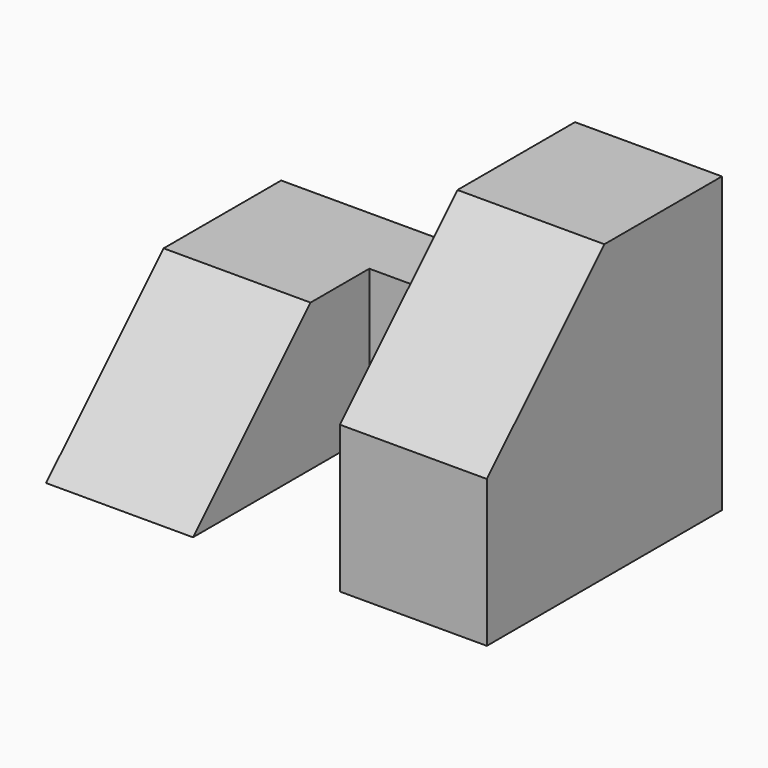
from build123d import *

# Parameters (mm, degrees)
F0_W     = 38.1
F0_H     = 25.4
F1_DEPTH = 12.7
F3_DEPTH = 25.4
F4_W     = 12.7
F4_H     = 19.05
F5_DEPTH = 46.482
F7_DEPTH = 78.994
F8_W     = 12.7
F8_H     = 12.7
F9_DEPTH = 25.4


with BuildPart() as f1:
    # F0 (on Front) → F1 (new body, symmetric)
    with BuildSketch(Plane.XZ):
        with Locations((19.05, 12.7)):
            Rectangle(F0_W, F0_H)
    extrude(amount=F1_DEPTH, both=True)

    # F2 (on Right) → F3 (cut)
    with BuildSketch(Plane.YZ):
        Polygon((0, 12.7), (0, 25.4), (-12.7, 25.4), (-12.7, 0), align=None)
    extrude(amount=F3_DEPTH, mode=Mode.SUBTRACT)

    # F4 (on Top) → F5 (cut)
    with BuildSketch(Plane.XY):
        with Locations((19.05, -3.175)):
            Rectangle(F4_W, F4_H)
    extrude(amount=F5_DEPTH, mode=Mode.SUBTRACT)

    # F6 (on Right) → F7 (cut)
    with BuildSketch(Plane.YZ):
        Polygon((-12.7, 12.7), (0, 25.4), (-12.7, 25.4), align=None)
    extrude(amount=F7_DEPTH, mode=Mode.SUBTRACT)

    # F8 (on Right) → F9 (cut)
    with BuildSketch(Plane.YZ):
        with Locations((6.35, 19.05)):
            Rectangle(F8_W, F8_H)
    extrude(amount=F9_DEPTH, mode=Mode.SUBTRACT)


solid = f1.part
